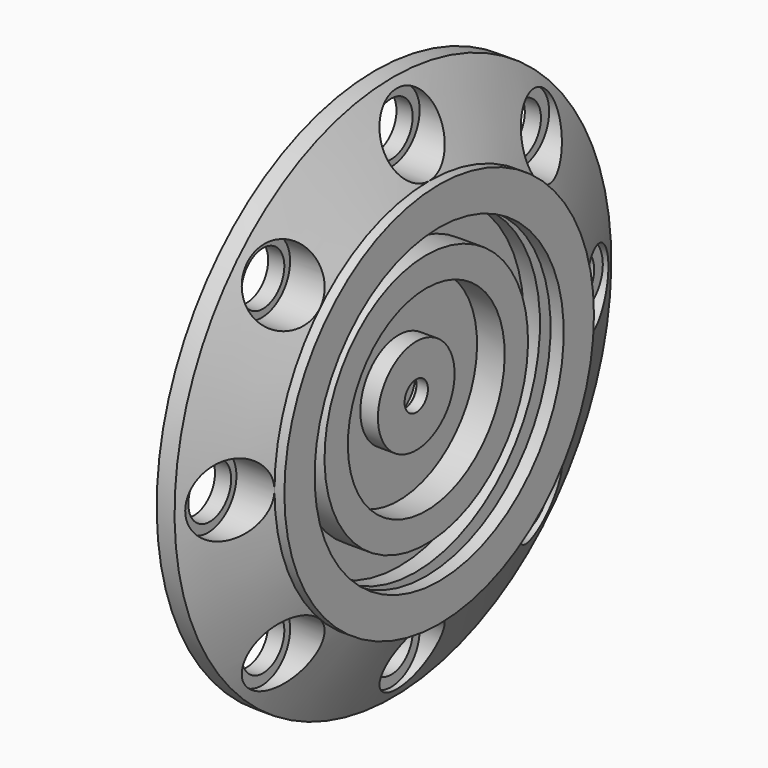
from build123d import *

# Parameters (mm, degrees)
F2_R     = 18.518227
F3_DEPTH = 55.67731
F4_R     = 24.558507
F5_DEPTH = 33.16598


with BuildPart() as f1:
    # F0 (on Front) → F1 (revolve)
    with BuildSketch(Plane.XZ):
        with BuildLine():
            Line((-31.634672, 26.731768), (-31.634672, 18.084292))
            Line((-31.634672, 18.084292), (-31.634672, 14.563103))
            Line((-31.634672, 14.563103), (-31.634672, 11.21465))
            ThreePointArc((-31.634672, 11.21465), (-31.307764, 10.425425), (-30.518538, 10.098517))
            Line((-30.518538, 10.098517), (-24.953399, 10.098517))
            ThreePointArc((-24.953399, 10.098517), (-24.156112, 10.433569), (-23.837501, 11.237568))
            Line((-23.837501, 11.237568), (-23.905799, 14.563103))
            Line((-23.905799, 14.563103), (-23.905799, 18.084292))
            Line((-23.905799, 18.084292), (-17.915921, 18.084292))
            Line((-17.915921, 18.084292), (-17.915921, 14.366018))
            Line((-17.915921, 14.366018), (-17.915921, 11.21465))
            ThreePointArc((-17.915921, 11.21465), (-17.589013, 10.425425), (-16.799788, 10.098517))
            Line((-16.799788, 10.098517), (-12.26929, 10.098517))
            ThreePointArc((-12.26929, 10.098517), (-11.480065, 10.425425), (-11.153157, 11.21465))
            Line((-11.153157, 11.21465), (-11.153157, 14.366018))
            Line((-11.153157, 14.366018), (-11.153157, 17.887207))
            Line((-11.153157, 17.887207), (-4.583615, 17.887207))
            Line((-4.583615, 17.887207), (-4.583615, 13.399908))
            Line((-4.583615, 13.399908), (-4.583615, 11.21465))
            ThreePointArc((-4.583615, 11.21465), (-4.256707, 10.425425), (-3.467482, 10.098517))
            Line((-3.467482, 10.098517), (3.918148, 10.098517))
            Line((3.918148, 10.098517), (3.918148, 12.283775))
            Line((3.918148, 12.283775), (3.918148, 33.151735))
            Line((3.918148, 33.151735), (-8.25483, 33.151735))
            Line((-8.25483, 33.151735), (-8.25483, 67.813937))
            Line((-8.25483, 67.813937), (10.854105, 67.813937))
            Line((10.854105, 67.813937), (10.854105, 88.015039))
            Line((10.854105, 88.015039), (-7.916776, 88.015039))
            Line((-7.916776, 88.015039), (-7.916776, 107.77386))
            Line((-7.916776, 107.77386), (3.321917, 107.77386))
            Line((3.321917, 107.77386), (3.321917, 120.955345))
            Line((3.321917, 120.955345), (10.664831, 120.955345))
            Line((10.664831, 120.955345), (10.664831, 107.738097))
            Line((10.664831, 107.738097), (19.770045, 107.738097))
            Line((19.770045, 107.738097), (19.770045, 133.882746))
            Line((19.770045, 133.882746), (12.914069, 133.882746))
            Line((12.914069, 133.882746), (-12.2206, 188.882292))
            Line((-12.2206, 188.882292), (-24.56986, 188.882292))
            Line((-24.56986, 188.882292), (-24.56986, 108.85907))
            Line((-24.56986, 108.85907), (-32.473387, 108.365096))
            Line((-32.473387, 108.365096), (-32.473387, 94.039954))
            Line((-32.473387, 94.039954), (-25.557799, 94.039954))
            Line((-25.557799, 94.039954), (-25.557799, 27.847901))
            Line((-25.557799, 27.847901), (-30.518538, 27.847901))
            ThreePointArc((-30.518538, 27.847901), (-31.307764, 27.520993), (-31.634672, 26.731768))
        make_face()
    revolve(axis=Axis((-54.682482, 0, 0), (-1, 0, 0)))

    # F2 (on face) → F3 (cut)
    with BuildSketch(Plane(origin=(-24.56986, 0, 0), x_dir=(0, -1, 0), z_dir=(-1, 0, 0))):
        with Locations((0, 156.969183)):
            Circle(F2_R)
        with Locations((-110.993973, 110.993973)):
            Circle(F2_R)
        with Locations((-156.969183, 0)):
            Circle(F2_R)
        with Locations((-110.993973, -110.993973)):
            Circle(F2_R)
        with Locations((0, -156.969183)):
            Circle(F2_R)
        with Locations((110.993973, -110.993973)):
            Circle(F2_R)
        with Locations((156.969183, 0)):
            Circle(F2_R)
        with Locations((110.993973, 110.993973)):
            Circle(F2_R)
    extrude(amount=-F3_DEPTH, mode=Mode.SUBTRACT)

    # F4 (on face) → F5 (cut)
    with BuildSketch(Plane.YZ.offset(19.770045)):
        with Locations((0, 158.441254)):
            Circle(F4_R)
        with Locations((-112.034885, 112.034885)):
            Circle(F4_R)
        with Locations((-158.441254, 0)):
            Circle(F4_R)
        with Locations((-112.034885, -112.034885)):
            Circle(F4_R)
        with Locations((0, -158.441254)):
            Circle(F4_R)
        with Locations((112.034885, -112.034885)):
            Circle(F4_R)
        with Locations((158.441254, 0)):
            Circle(F4_R)
        with Locations((112.034885, 112.034885)):
            Circle(F4_R)
    extrude(amount=-F5_DEPTH, mode=Mode.SUBTRACT)


solid = f1.part
